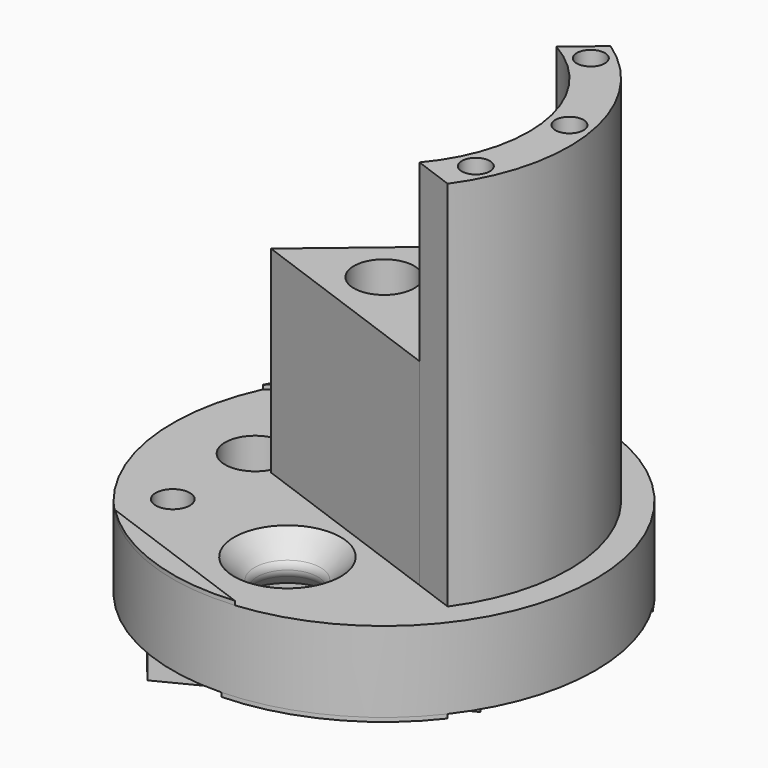
from build123d import *

# Parameters (mm, degrees)
F0_R      = 10.5
F0_R_2    = 1.5
F1_DEPTH  = 4
F6_DEPTH  = 0.2
F5_R      = 1.5
F7_DEPTH  = 9.8
F8_DEPTH  = 18.5
F9_R      = 0.7
F10_DEPTH = 8
F11_R     = 1.5
F12_DEPTH = 3.5
F13_R     = 0.85
F14_DEPTH = 26.001
F15_DEPTH = 0.2


with BuildPart() as f1:
    # F0 (on Top) → F1 (new body)
    with BuildSketch(Plane.XY):
        Circle(F0_R)
        with Locations((0, -6)):
            Circle(F0_R_2, mode=Mode.SUBTRACT)
        with Locations((-6.4, 0)):
            Circle(F0_R_2, mode=Mode.SUBTRACT)
        Circle(F0_R_2, mode=Mode.SUBTRACT)
        with Locations((0, 6)):
            Circle(F0_R_2, mode=Mode.SUBTRACT)
    extrude(amount=F1_DEPTH)

    # F2 (on Right) → F3 (revolve, cut)
    with BuildSketch(Plane.YZ):
        with BuildLine():
            Line((-7.5, 0), (-7.5, 2.6428932188))
            ThreePointArc((-7.5, 2.6428932188), (-7.5380602337, 2.4515515026), (-7.6464466094, 2.2893398282))
            Line((-7.6464466094, 2.2893398282), (-8.25, 1.6857864376))
            Line((-8.25, 1.6857864376), (-8.25, 0))
            Line((-8.25, 0), (-7.5, 0))
        make_face()
        with BuildLine():
            Line((-8.65, 4), (-7.6464466094, 2.9964466094))
            ThreePointArc((-7.6464466094, 2.9964466094), (-7.5380602337, 2.834234935), (-7.5, 2.6428932188))
            Line((-7.5, 2.6428932188), (-7.5, 4))
            Line((-7.5, 4), (-8.65, 4))
        make_face()
    revolve(axis=Axis((0, -6, 2), (0, 0, -1)), mode=Mode.SUBTRACT)

    # F2 (on Right) → F4 (revolve, cut)
    with BuildSketch(Plane.YZ):
        with BuildLine():
            Line((7.6464466094, 2.9964466094), (8.65, 4))
            Line((8.65, 4), (7.5, 4))
            Line((7.5, 4), (7.5, 2.6428932188))
            ThreePointArc((7.5, 2.6428932188), (7.5380602337, 2.834234935), (7.6464466094, 2.9964466094))
        make_face()
        with BuildLine():
            ThreePointArc((7.6464466094, 2.2893398282), (7.5380602337, 2.4515515026), (7.5, 2.6428932188))
            Line((7.5, 2.6428932188), (7.5, 0))
            Line((7.5, 0), (8.25, 0))
            Line((8.25, 0), (8.25, 1.6857864376))
            Line((8.25, 1.6857864376), (7.6464466094, 2.2893398282))
        make_face()
    revolve(axis=Axis((0, 6, 2), (0, 0, -1)), mode=Mode.SUBTRACT)

    # F5 (on face) → F6 (join)
    with BuildSketch(Plane.XY.offset(4)):
        with BuildLine():
            Line((-9.5323371892, 4.4027886289), (-2.6806273948, 10.1520557903))
            ThreePointArc((-2.6806273948, 10.1520557903), (-6.7492699017, 8.0434666527), (-9.5323371892, 4.4027886289))
        make_face()
        with BuildLine():
            ThreePointArc((-7.4516245177, -7.3975193172), (-3.5912115049, -9.8667725183), (0.9532417945, -10.4566404778))
            Line((0.9532417945, -10.4566404778), (-7.4516245177, -7.3975193172))
        make_face()
    extrude(amount=F6_DEPTH)

    # F5 (on face) → F7 (join)
    with BuildSketch(Plane.XY.offset(4)):
        with BuildLine():
            ThreePointArc((5.4897887319, -4.658564122), (7.0906158217, 1.2502668792), (3.5653911923, 6.2552366578))
            Line((3.5653911923, 6.2552366578), (2.9914480943, 5.7736412159))
            ThreePointArc((2.9914480943, 5.7736412159), (1.9283628291, 3.7018666706), (-0.2965396247, 3.0146919337))
            Line((-0.2965396247, 3.0146919337), (-4.9240387651, -0.8682408883))
            Line((-4.9240387651, -0.8682408883), (5.4897887319, -4.658564122))
        make_face()
        Circle(F5_R, mode=Mode.SUBTRACT)
    extrude(amount=F7_DEPTH)

    # F5 (on face) → F8 (join)
    with BuildSketch(Plane.XY.offset(4)):
        with BuildLine():
            ThreePointArc((7.4648121374, -5.3774138536), (9.0602313277, 1.5975632345), (5.1754450242, 7.6062322343))
            Line((5.1754450242, 7.6062322343), (3.5653911923, 6.2552366578))
            ThreePointArc((3.5653911923, 6.2552366578), (7.0906158217, 1.2502668792), (5.4897887319, -4.658564122))
            Line((5.4897887319, -4.658564122), (7.4648121374, -5.3774138536))
        make_face()
    extrude(amount=F8_DEPTH)

    # F9 (on face) → F10 (cut)
    with BuildSketch(Plane.XY.offset(22.5)):
        with Locations((5.2113912337, 6.3309873961)):
            Circle(F9_R)
        with Locations((8.0754235747, 1.4239150569)):
            Circle(F9_R)
        with Locations((7.3951047667, -3.5429402323)):
            Circle(F9_R)
    extrude(amount=-F10_DEPTH, mode=Mode.SUBTRACT)

    # F11 (on face) → F12 (join)
    with BuildSketch(Plane(origin=(0, 0, 0), x_dir=(1, 0, 0), z_dir=(0, 0, -1))):
        with BuildLine():
            ThreePointArc((-6.7538286642, 6.24706318), (-9.1873917197, -0.4814907974), (-6.0638345699, -6.9188084457))
            Line((-6.0638345699, -6.9188084457), (4.9931476738, 0.2616797812))
            Line((4.9931476738, 0.2616797812), (-6.7538286642, 6.24706318))
        make_face()
        with Locations((-6.4, 0)):
            Circle(F11_R, mode=Mode.SUBTRACT)
        Circle(F11_R, mode=Mode.SUBTRACT)
    extrude(amount=F12_DEPTH)

    # F13 (on face) → F14 (cut, through all)
    with BuildSketch(Plane(origin=(0, 0, -3.5), x_dir=(1, 0, 0), z_dir=(0, 0, -1))):
        with Locations((-5.9440995908, -5.6486883482)):
            Circle(F13_R)
        with Locations((-6.5019859038, 4.9964166467)):
            Circle(F13_R)
    extrude(amount=-F14_DEPTH, mode=Mode.SUBTRACT)

    # F11 (on face) → F15 (join)
    with BuildSketch(Plane(origin=(0, 0, 0), x_dir=(1, 0, 0), z_dir=(0, 0, -1))):
        with BuildLine():
            Line((8.924719634, -5.5316705845), (1.4234220313, -10.4030702065))
            ThreePointArc((1.4234220313, -10.4030702065), (5.7187098677, -8.8060409634), (8.924719634, -5.5316705845))
        make_face()
        with BuildLine():
            ThreePointArc((8.2976120605, 6.4342547427), (4.7669002473, 9.355568504), (0.3282074346, 10.4948692169))
            Line((0.3282074346, 10.4948692169), (8.2976120605, 6.4342547427))
        make_face()
    extrude(amount=F15_DEPTH)


solid = f1.part
